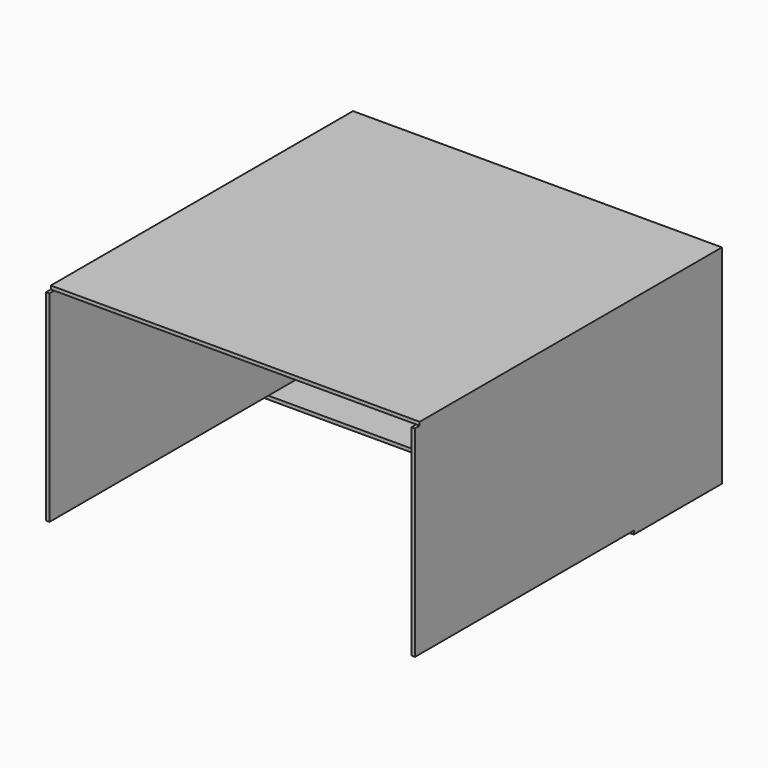
from build123d import *

# Parameters (mm, degrees)
F0_W      = 595.376
F0_H      = 335.788
F1_DEPTH  = 4.7625
F2_W      = 5.588
F2_H      = 324.612
F3_DEPTH  = 609.6
F4_W      = 595.376
F4_H      = 5.588
F6_DEPTH  = 600.075
F7_W      = 595.376
F7_H      = 5.588
F8_DEPTH  = 177.8
F10_DEPTH = 9.525
F11_R     = 3.175
F12_DEPTH = 9.525


with BuildPart() as f1:
    # F0 (on Front) → F1 (new body, symmetric)
    with BuildSketch(Plane.XZ):
        Rectangle(F0_W, F0_H)
    extrude(amount=F1_DEPTH, both=True)

    # F2 (on face) → F3 (join)
    with BuildSketch(Plane.XZ.offset(4.7625)):
        with Locations((-294.894, 0)):
            Rectangle(F2_W, F2_H)
        with Locations((294.894, 0)):
            Rectangle(F2_W, F2_H)
    extrude(amount=F3_DEPTH)

    # F4 (on face) → F6 (join, through all)
    with BuildSketch(Plane.XZ.offset(4.7625)):
        with Locations((0, 165.1)):
            Rectangle(F4_W, F4_H)
    extrude(amount=F6_DEPTH)

    # F7 (on face) → F8 (join)
    with BuildSketch(Plane(origin=(0, 4.7625, 0), x_dir=(-1, 0, 0), z_dir=(0, 1, 0))):
        with Locations((0, -165.1)):
            Rectangle(F7_W, F7_H)
    extrude(amount=-F8_DEPTH)

    # F9 (on face) → F10 (cut, through all)
    with BuildSketch(Plane(origin=(0, 4.7625, 0), x_dir=(-1, 0, 0), z_dir=(0, 1, 0))):
        with BuildLine():
            ThreePointArc((-246.888, 152.019), (-273.8287683632, 140.8597683632), (-284.988, 113.919))
            Line((-284.988, 113.919), (-284.988, -113.919))
            ThreePointArc((-284.988, -113.919), (-273.8287683632, -140.8597683632), (-246.888, -152.019))
            Line((-246.888, -152.019), (-246.888, 152.019))
        make_face()
        with BuildLine():
            Line((284.988, -113.919), (284.988, 113.919))
            ThreePointArc((284.988, 113.919), (273.8287683632, 140.8597683632), (246.888, 152.019))
            Line((246.888, 152.019), (246.888, -152.019))
            ThreePointArc((246.888, -152.019), (273.8287683632, -140.8597683632), (284.988, -113.919))
        make_face()
    extrude(amount=-F10_DEPTH, mode=Mode.SUBTRACT)

    # F11 (on face) → F12 (cut, through all)
    with BuildSketch(Plane(origin=(0, 4.7625, 0), x_dir=(-1, 0, 0), z_dir=(0, 1, 0))):
        with Locations((-216.2556, 144.7546)):
            Circle(F11_R)
        with Locations((-216.2556, -144.7546)):
            Circle(F11_R)
        with Locations((216.2556, 144.7546)):
            Circle(F11_R)
        with Locations((216.2556, -144.7546)):
            Circle(F11_R)
    extrude(amount=-F12_DEPTH, mode=Mode.SUBTRACT)


solid = f1.part
